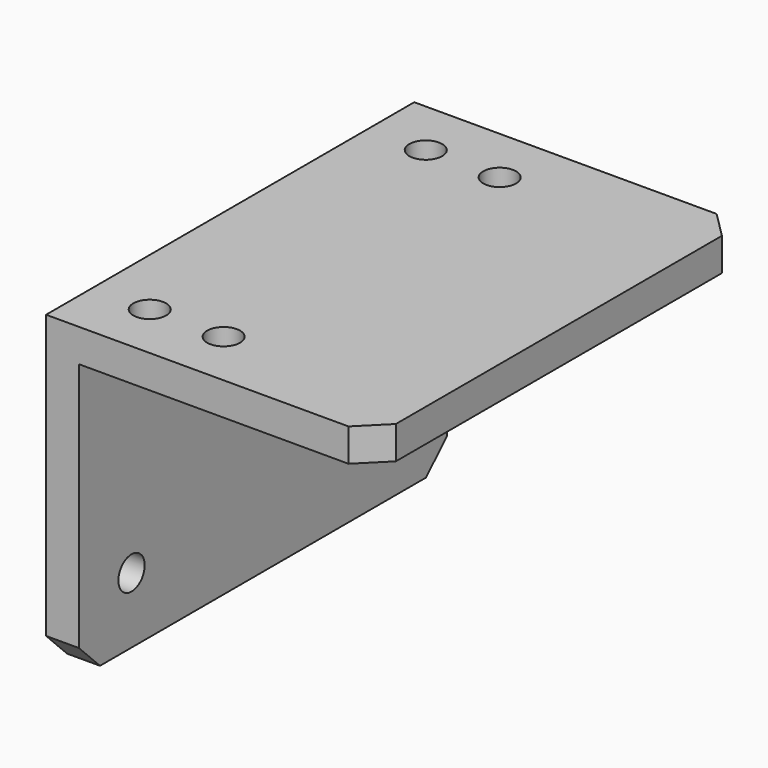
from build123d import *

# Parameters (mm, degrees)
F1_DEPTH = 88.9
F3_D     = 6.35
F4_SIZE  = 5.08
F6_D     = 6.35


with BuildPart() as f1:
    # F0 (on Front) → F1 (new body)
    with BuildSketch(Plane.XZ):
        Polygon((27.723321, 33.983968), (-29.426679, 33.983968), (-35.776679, 33.983968), (-35.776679, -25.72097), (-29.426679, -25.72097), (-29.426679, 27.633968), (27.723321, 27.633968), align=None)
    extrude(amount=F1_DEPTH)

    # F3 (through all)
    with Locations(Plane.YZ.offset(-29.426679)):
        with Locations((-76.2, -13.02097), (-12.7, -13.02097)):
            Hole(F3_D / 2)

    # F4
    f4_edges = [f1.edges().sort_by_distance(p)[0] for p in [
        (-32.601679, -88.9, -25.72097),
        (27.723321, -88.9, 30.808968),
        (27.723321, 0, 30.808968),
        (-32.601679, 0, -25.72097),
    ]]
    chamfer(f4_edges, length=F4_SIZE)

    # F6 (through all)
    with Locations(Plane.XY.offset(33.983968)):
        with Locations((-10.376679, -11.1252), (-24.651479, -11.1252), (-24.651479, -77.7748), (-10.376679, -77.7748)):
            Hole(F6_D / 2)


solid = f1.part
